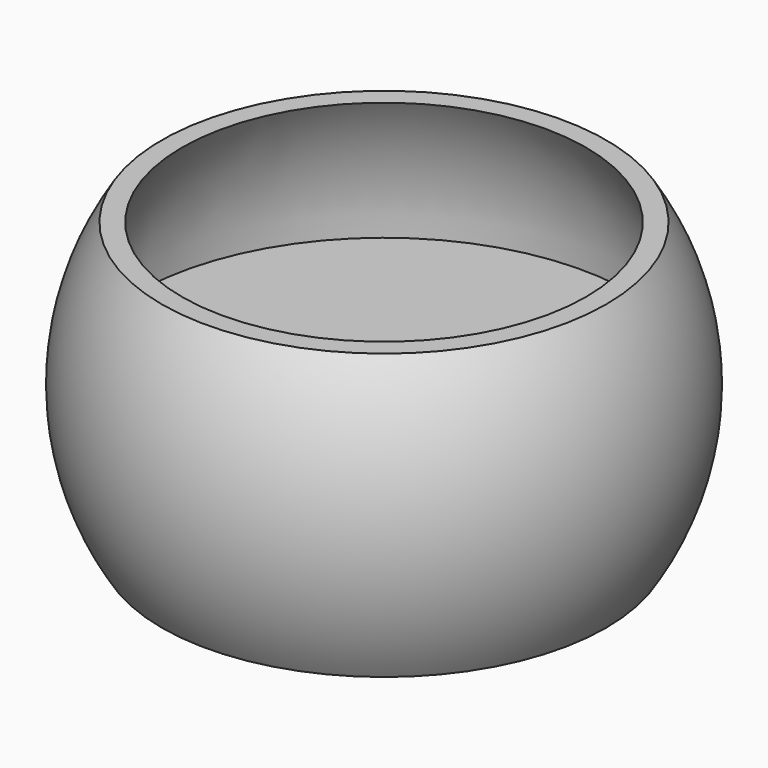
from build123d import *


with BuildPart() as f1:
    # F0 (on Front) → F1 (revolve)
    with BuildSketch(Plane.XZ):
        with BuildLine():
            Line((44.221834, 28.323721), (40.214111, 28.323721))
            ThreePointArc((40.214111, 28.323721), (46.890503, 14.855592), (49.187477, 0))
            Line((49.187477, 0), (21.203119, 0))
            Line((21.203119, 0), (0, 0))
            Line((0, 0), (0, -28.323721))
            Line((0, -28.323721), (44.221834, -28.323721))
            ThreePointArc((44.221834, -28.323721), (52.514795, 0), (44.221834, 28.323721))
        make_face()
    revolve(axis=Axis((0, 0, -14.16186), (0, 0, -1)))


solid = f1.part
